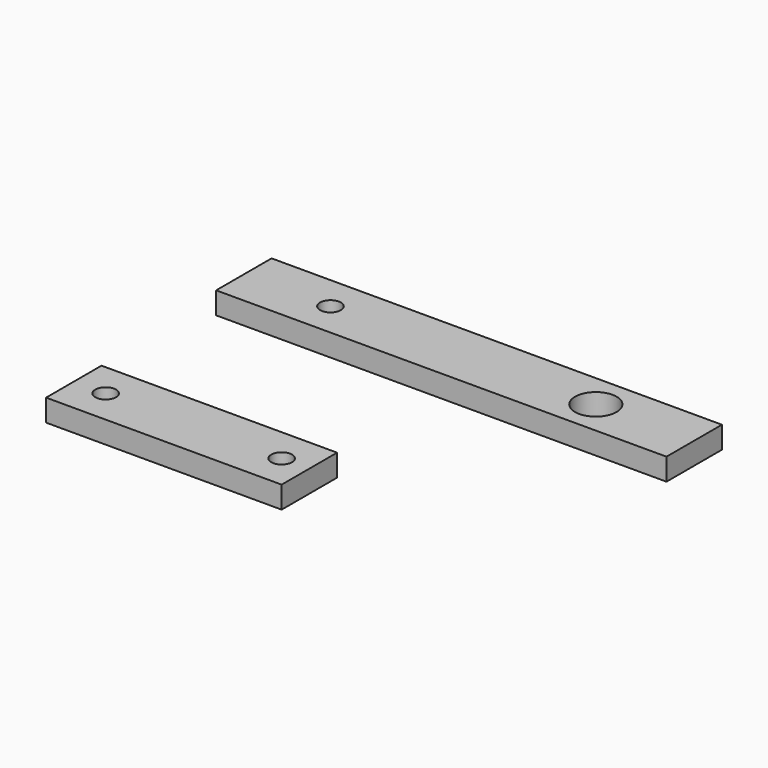
from build123d import *

# Parameters (mm, degrees)
F0_W     = 65
F0_H     = 10
F0_R     = 1.5
F0_R_2   = 3
F0_W_2   = 34
F1_DEPTH = 3.18


with BuildPart() as f1:
    # F0 (on Top) → F1 (new body)
    with BuildSketch(Plane.XY):
        with Locations((-87.014096, 57.634989)):
            Rectangle(F0_W, F0_H)
        with Locations((-107.014096, 57.634989)):
            Circle(F0_R, mode=Mode.SUBTRACT)
        with Locations((-68.714096, 57.634989)):
            Circle(F0_R_2, mode=Mode.SUBTRACT)
        with Locations((-101.121743, 25.210787)):
            Rectangle(F0_W_2, F0_H)
        with Locations((-113.521743, 25.210787)):
            Circle(F0_R, mode=Mode.SUBTRACT)
        with Locations((-88.121743, 25.210787)):
            Circle(F0_R, mode=Mode.SUBTRACT)
    extrude(amount=F1_DEPTH)


solid = f1.part
